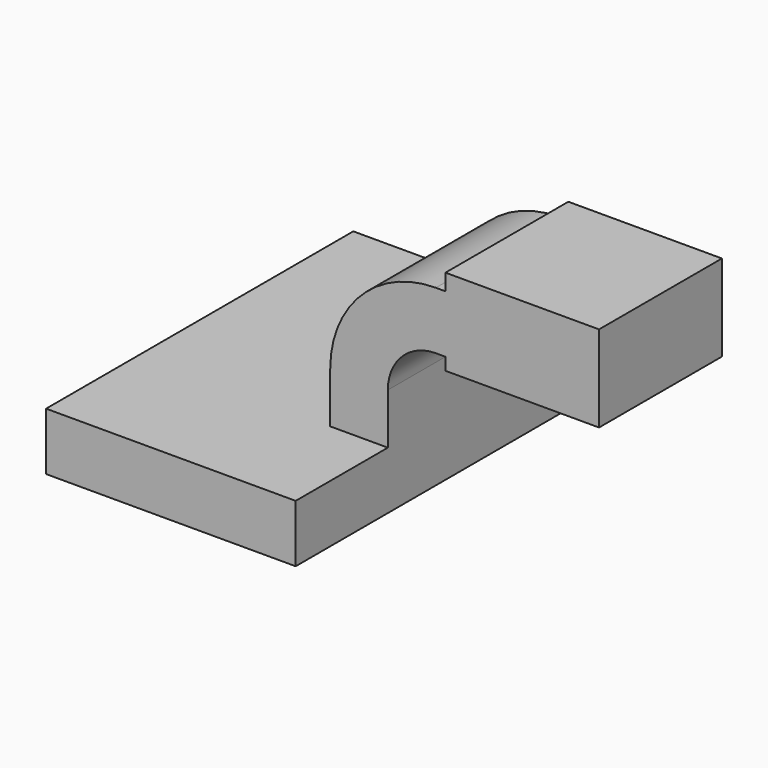
from build123d import *

# Parameters (mm, degrees)
F1_DEPTH = 63.5
F2_DEPTH = 25.4


with BuildPart() as f1:
    # F0 (on Front) → F1 (new body, symmetric)
    with BuildSketch(Plane.XZ):
        Polygon((22.225, 9.525), (-41.275, 9.525), (-41.275, -9.525), (41.275, -9.525), (41.275, 9.525), align=None)
    extrude(amount=F1_DEPTH, both=True)

    # F0 (on Front) → F2 (join, symmetric)
    with BuildSketch(Plane.XZ):
        with BuildLine():
            Line((22.225, 26.3144), (22.225, 9.525))
            Line((22.225, 9.525), (41.275, 9.525))
            Line((41.275, 9.525), (41.275, 26.3144))
            ThreePointArc((41.275, 26.3144), (45.92468, 37.53972), (57.15, 42.1894))
            Line((57.15, 42.1894), (60.325, 42.1894))
            Line((60.325, 42.1894), (60.325, 61.2394))
            Line((60.325, 61.2394), (57.15, 61.2394))
            ThreePointArc((57.15, 61.2394), (32.454296, 51.010104), (22.225, 26.3144))
        make_face()
        Polygon((60.325, 66.675), (60.325, 61.2394), (60.325, 42.1894), (60.325, 38.1), (111.125, 38.1), (111.125, 66.675), (85.725, 66.675), align=None)
    extrude(amount=F2_DEPTH, both=True)


solid = f1.part
